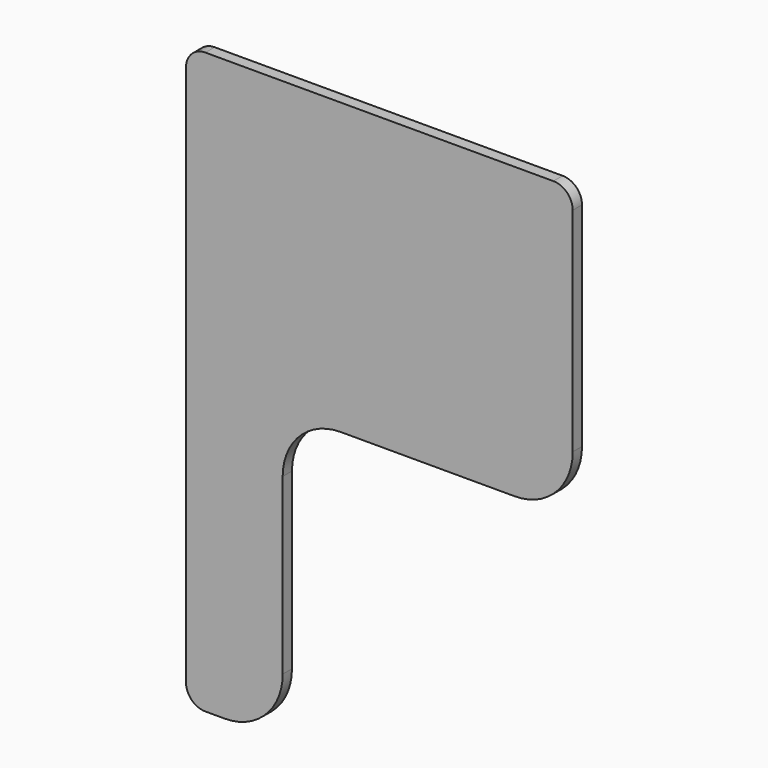
from build123d import *

# Parameters (mm, degrees)
F1_DEPTH = 3
F2_R     = 5
F3_R     = 15
F4_R     = 15
F5_R     = 15


with BuildPart() as f1:
    # F0 (on Front) → F1 (new body)
    with BuildSketch(Plane.XZ):
        with BuildLine():
            Line((0, 145), (0, 0))
            Line((0, 0), (25, 0))
            Line((25, 0), (25, 75))
            Line((25, 75), (100, 75))
            Line((100, 75), (100, 145))
            ThreePointArc((100, 145), (98.535534, 148.535534), (95, 150))
            Line((95, 150), (5, 150))
            ThreePointArc((5, 150), (1.464466, 148.535534), (0, 145))
        make_face()
    extrude(amount=F1_DEPTH)

    # F2
    f2_edges = [f1.edges().sort_by_distance(p)[0] for p in [
        (0, -1.5, 0),
    ]]
    fillet(f2_edges, radius=F2_R)

    # F3
    f3_edges = [f1.edges().sort_by_distance(p)[0] for p in [
        (100, -1.5, 75),
    ]]
    fillet(f3_edges, radius=F3_R)

    # F4
    f4_edges = [f1.edges().sort_by_distance(p)[0] for p in [
        (25, -1.5, 0),
    ]]
    fillet(f4_edges, radius=F4_R)

    # F5
    f5_edges = [f1.edges().sort_by_distance(p)[0] for p in [
        (25, -1.5, 75),
    ]]
    fillet(f5_edges, radius=F5_R)


solid = f1.part
